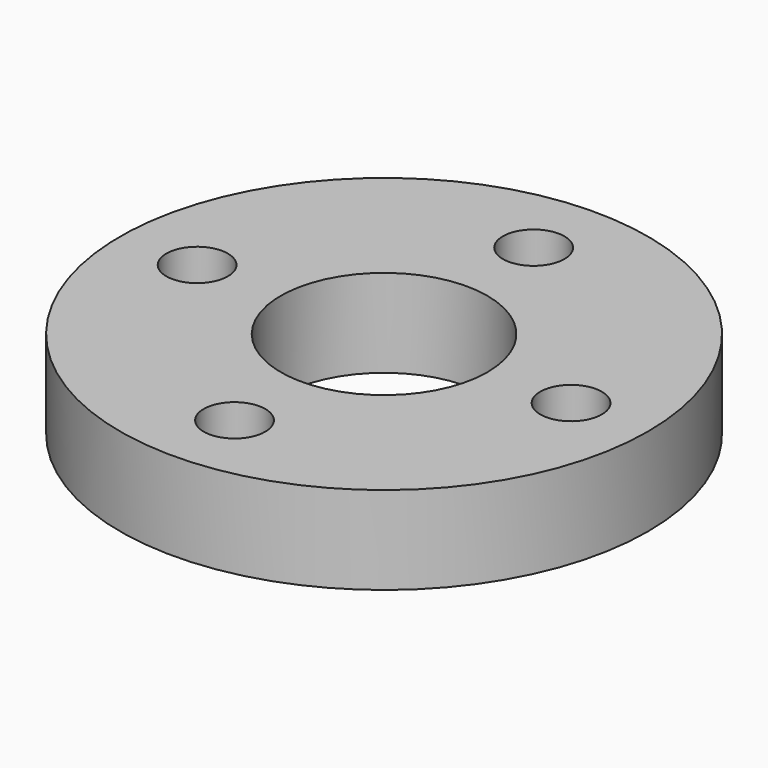
from build123d import *

# Parameters (mm, degrees)
CYLINDER006_R     = 4.7
CYLINDER006_DEPTH = 6
CYLINDER003_R     = 1.4
CYLINDER003_DEPTH = 10
CYLINDER004_R     = 1.4
CYLINDER004_DEPTH = 10
CYLINDER005_R     = 1.4
CYLINDER005_DEPTH = 10
CYLINDER002_R     = 1.4
CYLINDER002_DEPTH = 10
CYLINDER_R        = 12
CYLINDER_DEPTH    = 4


with BuildPart() as cylinder006:
    # Cylinder006 → Cylinder006 (new body)
    with BuildSketch(Plane.XY.offset(-1)):
        Circle(CYLINDER006_R)
    extrude(amount=CYLINDER006_DEPTH)


with BuildPart() as cylinder003:
    # Cylinder003 → Cylinder003 (new body)
    with BuildSketch(Plane(origin=(8.5, 0, -1), x_dir=(1, 0, 0), z_dir=(0, 0, 1))):
        Circle(CYLINDER003_R)
    extrude(amount=CYLINDER003_DEPTH)


with BuildPart() as cylinder004:
    # Cylinder004 → Cylinder004 (new body)
    with BuildSketch(Plane(origin=(0, 8.5, -1), x_dir=(1, 0, 0), z_dir=(0, 0, 1))):
        Circle(CYLINDER004_R)
    extrude(amount=CYLINDER004_DEPTH)


with BuildPart() as cylinder005:
    # Cylinder005 → Cylinder005 (new body)
    with BuildSketch(Plane(origin=(0, -8.5, -1), x_dir=(1, 0, 0), z_dir=(0, 0, 1))):
        Circle(CYLINDER005_R)
    extrude(amount=CYLINDER005_DEPTH)


with BuildPart() as cylinder002:
    # Cylinder002 → Cylinder002 (new body)
    with BuildSketch(Plane(origin=(-8.5, 0, -1), x_dir=(1, 0, 0), z_dir=(0, 0, 1))):
        Circle(CYLINDER002_R)
    extrude(amount=CYLINDER002_DEPTH)


with BuildPart() as obj1:
    # Cylinder → Cylinder (new body)
    with BuildSketch(Plane.XY):
        Circle(CYLINDER_R)
    extrude(amount=CYLINDER_DEPTH)

    # Cut: cut Cylinder002
    add(cylinder002.part, mode=Mode.SUBTRACT)

    # Cut001: cut Cylinder005
    add(cylinder005.part, mode=Mode.SUBTRACT)

    # Cut002: cut Cylinder004
    add(cylinder004.part, mode=Mode.SUBTRACT)

    # Cut003: cut Cylinder003
    add(cylinder003.part, mode=Mode.SUBTRACT)

    # Cut004: cut Cylinder006
    add(cylinder006.part, mode=Mode.SUBTRACT)


solid = obj1.part
